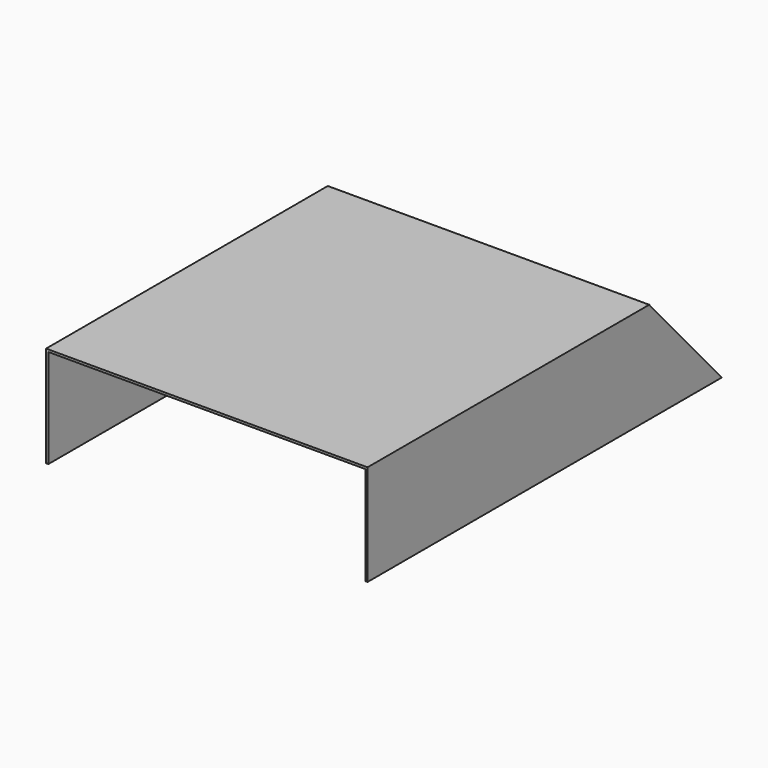
from build123d import *

# Parameters (mm, degrees)
F0_W     = 283
F0_H     = 390
F1_DEPTH = 88.9
F3_DEPTH = 283.001
F4_W     = 279
F4_H     = 86.9
F5_DEPTH = 390.001
F6_DEPTH = 281


with BuildPart() as f1:
    # F0 (on Top) → F1 (new body)
    with BuildSketch(Plane.XY):
        Rectangle(F0_W, F0_H)
    extrude(amount=F1_DEPTH)

    # F2 (on face) → F3 (cut, through all)
    with BuildSketch(Plane(origin=(-141.5, 0, 0), x_dir=(0, -1, 0), z_dir=(-1, 0, 0))):
        Polygon((-115, 88.9), (-195, 88.9), (-195, 0), align=None)
    extrude(amount=-F3_DEPTH, mode=Mode.SUBTRACT)

    # F4 (on face) → F5 (cut, through all)
    with BuildSketch(Plane.XZ.offset(195)):
        with Locations((0, 43.45)):
            Rectangle(F4_W, F4_H)
    extrude(amount=-F5_DEPTH, mode=Mode.SUBTRACT)

    # F2 (on face) → F6 (join, through all)
    with BuildSketch(Plane(origin=(-141.5, 0, 0), x_dir=(0, -1, 0), z_dir=(-1, 0, 0))):
        Polygon((-112.309426, 88.9), (-115, 88.9), (-195, 0), (-192.309426, 0), align=None)
    extrude(amount=-F6_DEPTH)


solid = f1.part
